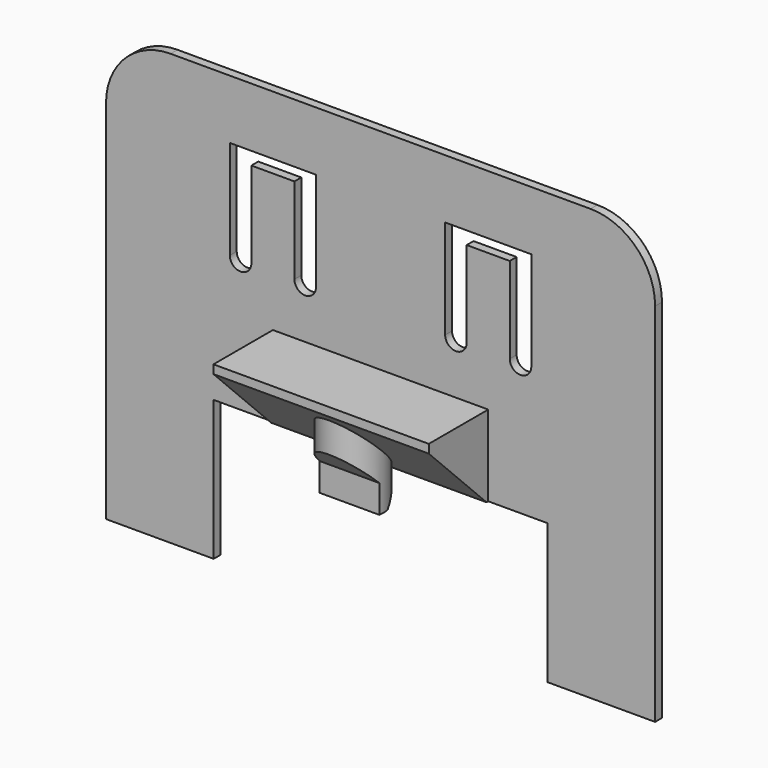
from build123d import *

# Parameters (mm, degrees)
PAD_DEPTH       = 0.8
PAD001_DEPTH    = 10
SKETCH003_R     = 2.8
PAD002_DEPTH    = 9.5
POCKET001_DEPTH = 3
POCKET_DEPTH    = 5


with BuildPart() as part:
    # Sketch → Pad (new body)
    with BuildSketch(Plane.XZ):
        with BuildLine():
            Line((-25.5, 13.5), (-25.5, 47.5))
            ThreePointArc((-19.5, 53.5), (-23.742641, 51.742641), (-25.5, 47.5))
            Line((-19.5, 53.5), (19.5, 53.5))
            ThreePointArc((25.5, 47.5), (23.742641, 51.742641), (19.5, 53.5))
            Line((25.5, 47.5), (25.5, 13.5))
            Line((25.5, 13.5), (15.5, 13.5))
            Line((15.5, 13.5), (15.5, 26.5))
            Line((15.5, 26.5), (-15.5, 26.5))
            Line((-15.5, 26.5), (-15.5, 13.5))
            Line((-15.5, 13.5), (-25.5, 13.5))
        make_face()
    extrude(amount=PAD_DEPTH)

    # Sketch001 → Pad001 (join, symmetric)
    with BuildSketch(Plane.YZ):
        Polygon((-1, 26.5), (-7.7, 33.2), (-7.7, 34), (0, 34), (0, 26.5), align=None)
    extrude(amount=PAD001_DEPTH, both=True)

    # Sketch003 (on Face12 of Pad001) → Pad002 (join)
    with BuildSketch(Plane(origin=(0, 0, 34), x_dir=(-1, 0, 0), z_dir=(0, 0, 1))):
        with Locations((0, 4)):
            Circle(SKETCH003_R)
    extrude(amount=-PAD002_DEPTH)

    # Sketch004 → Pocket001 (cut, symmetric)
    with BuildSketch(Plane.YZ):
        Polygon((-1.2, 26.699), (-3.399, 24.5), (-1.2, 24.5), align=None)
        Polygon((-7.7, 30.4), (-7.7, 24.5), (-4.4, 24.5), (-4.4, 27.1), align=None)
    extrude(amount=POCKET001_DEPTH, both=True, mode=Mode.SUBTRACT)

    # Sketch005 (on Face5 of Pad002) → Pocket (cut)
    with BuildSketch(Plane.XZ.offset(0.8)):
        with BuildLine():
            Line((-12, 38.8), (-12, 46.8))
            Line((-12, 46.8), (-8, 46.8))
            Line((-8, 46.8), (-8, 38.8))
            ThreePointArc((-8, 38.8), (-7, 37.8), (-6, 38.8))
            Line((-6, 38.8), (-6, 48))
            Line((-6, 48), (-14, 48))
            Line((-14, 48), (-14, 38.8))
            ThreePointArc((-14, 38.8), (-13, 37.8), (-12, 38.8))
        make_face()
        with BuildLine():
            Line((12, 38.8), (12, 46.8))
            Line((12, 46.8), (8, 46.8))
            Line((8, 46.8), (8, 38.8))
            ThreePointArc((6, 38.8), (7, 37.8), (8, 38.8))
            Line((6, 38.8), (6, 48))
            Line((6, 48), (14, 48))
            Line((14, 48), (14, 38.8))
            ThreePointArc((12, 38.8), (13, 37.8), (14, 38.8))
        make_face()
    extrude(amount=-POCKET_DEPTH, mode=Mode.SUBTRACT)


solid = part.part
